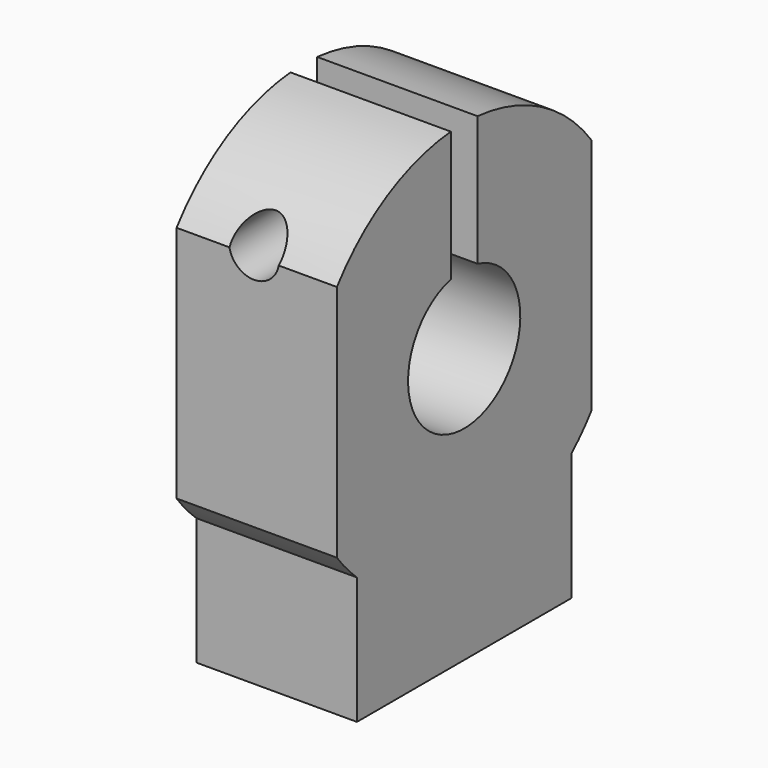
from build123d import *

# Parameters (mm, degrees)
F0_R     = 4.2
F1_DEPTH = 9.6
F2_R     = 1.5
F3_DEPTH = 19.051
F4_W     = 9.64414
F4_H     = 2
F5_DEPTH = 11.901


with BuildPart() as f1:
    # F0 (on Right) → F1 (new body)
    with BuildSketch(Plane.YZ):
        with BuildLine():
            Line((-9.525, 7.133328), (-9.525, -7.133328))
            ThreePointArc((-9.525, -7.133328), (-8.813863, -7.995362), (-8.025, -8.786887))
            ThreePointArc((-8.025, -8.786887), (0, -11.9), (8.025, -8.786887))
            ThreePointArc((8.025, -8.786887), (8.813863, -7.995362), (9.525, -7.133328))
            Line((9.525, -7.133328), (9.525, 7.133328))
            ThreePointArc((9.525, 7.133328), (0, 11.9), (-9.525, 7.133328))
        make_face()
        Circle(F0_R, mode=Mode.SUBTRACT)
        with BuildLine():
            ThreePointArc((8.025, -8.786887), (0, -11.9), (-8.025, -8.786887))
            Line((-8.025, -8.786887), (-8.025, -16.4))
            Line((-8.025, -16.4), (8.025, -16.4))
            Line((8.025, -16.4), (8.025, -8.786887))
        make_face()
    extrude(amount=F1_DEPTH)

    # F2 (on face) → F3 (cut, through all)
    with BuildSketch(Plane.XZ.offset(9.525)):
        with Locations((4.642159, 7.4)):
            Circle(F2_R)
    extrude(amount=-F3_DEPTH, mode=Mode.SUBTRACT)

    # F4 (on Top) → F5 (cut, through all)
    with BuildSketch(Plane.XY):
        with Locations((4.82207, 0)):
            Rectangle(F4_W, F4_H)
    extrude(amount=F5_DEPTH, mode=Mode.SUBTRACT)


solid = f1.part
